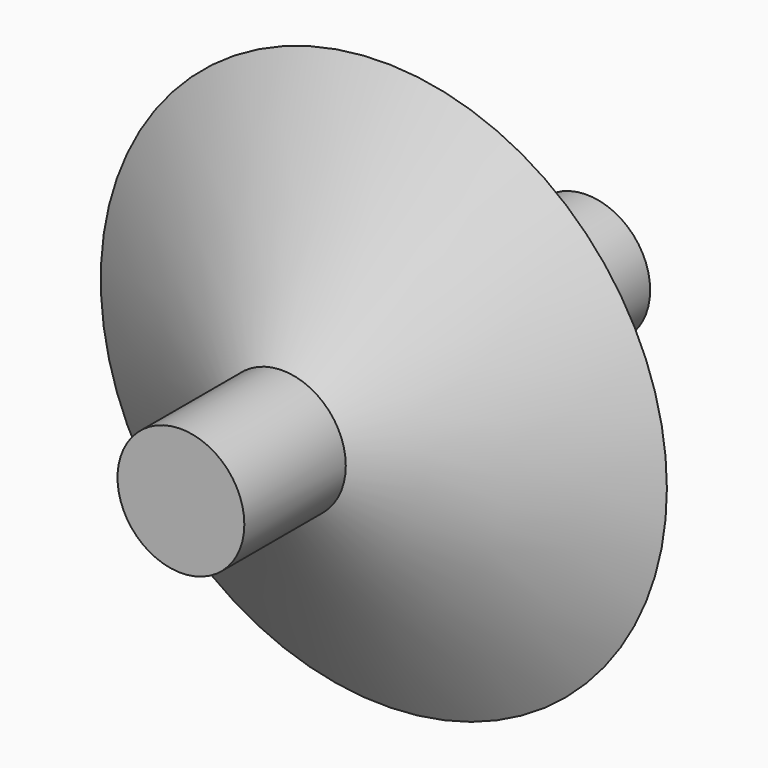
from build123d import *


with BuildPart() as f1:
    # F0 (on Top) → F1 (revolve)
    with BuildSketch(Plane.XY):
        Polygon((4, 0), (0, 0), (0, -32), (4, -32), (4, -24), (17.856406, -16), (4, -8), align=None)
        Polygon((4, -19.381198), (4, -12.618802), (9.856406, -16), align=None, mode=Mode.SUBTRACT)
        Polygon((9.856406, -16), (4, -12.618802), (4, -19.381198), align=None)
    revolve(axis=Axis((0, -16, 0), (0, -1, 0)))


solid = f1.part
